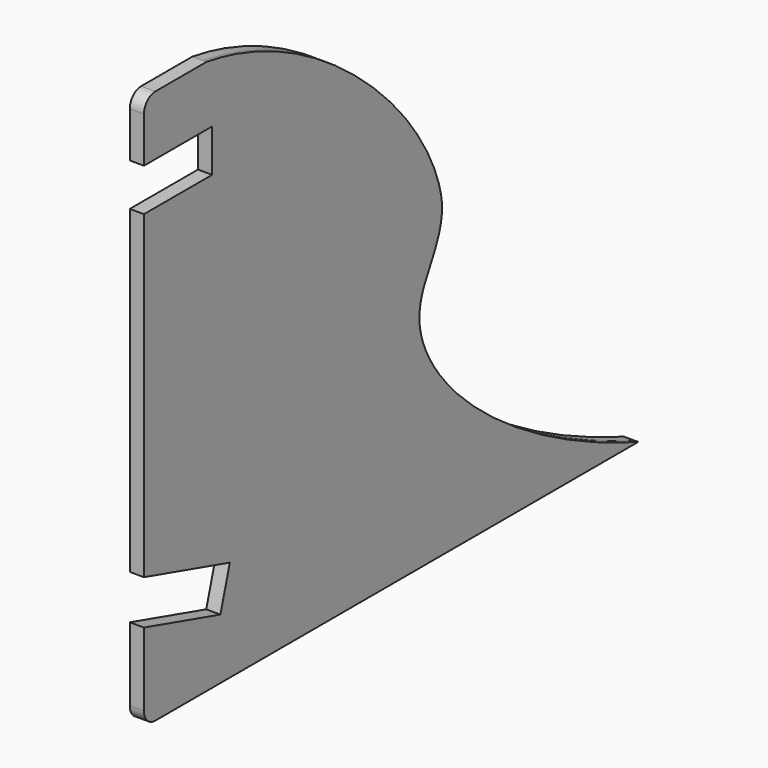
from build123d import *

# Parameters (mm, degrees)
F1_DEPTH      = 1.5
F4_DEPTH      = 0.5
F5_W          = 12
F5_H          = 6
F6_DEPTH      = 25
F8_DEPTH      = 25
F8_DEPTH_BACK = 25


with BuildPart() as f1:
    # F0 (on Right) → F1 (new body)
    with BuildSketch(Plane.YZ):
        with BuildLine():
            Line((42, 78), (2, 78))
            ThreePointArc((2, 78), (0.5857864376, 77.4142135624), (0, 76))
            Line((0, 76), (0, 69.6))
            Line((0, 69.6), (12, 69.6))
            Line((12, 69.6), (12, 63.6))
            Line((12, 63.6), (0, 63.6))
            Line((0, 63.6), (0, 18.5937966152))
            Line((0, 18.5937966152), (15.111487878, 14.2606471942))
            Line((15.111487878, 14.2606471942), (13.4576637431, 8.4930770186))
            Line((13.4576637431, 8.4930770186), (0, 12.352))
            Line((0, 12.352), (0, 2))
            ThreePointArc((0, 2), (0.5857864376, 0.5857864376), (2, 0))
            Line((2, 0), (109, 0))
            add(Edge.make_bspline(
                [(42, 78), (49.7588251107, 74.4711096647), (42.8270565854, 74.0872679271), (176.3258193003, 17.6443266752), (122.5913906271, 2.3415980892), (109, 0)],
                knots=[0, 0, 0, 0, 0.1806872551, 0.6953480319, 1, 1, 1, 1], degree=3))
        make_face()
    extrude(amount=F1_DEPTH)

    # F3 (on face) → F4 (join)
    with BuildSketch(Plane.YZ.offset(1.5)):
        with BuildLine():
            add(Edge.make_bspline(
                [(11, 78), (33.8045589941, 74.6475609926), (60.8453739258, 43.3923563223), (40.9565199131, 30.4234463117), (61.9851178247, 9.0627176212), (87, 0)],
                knots=[0, 0, 0, 0, 0.4113848141, 0.6062089181, 1, 1, 1, 1], degree=3))
            Line((11, 78), (2, 78))
            ThreePointArc((2, 78), (0.5857864376, 77.4142135624), (0, 76))
            Line((0, 76), (0, 2))
            ThreePointArc((0, 2), (0.5857864376, 0.5857864376), (2, 0))
            Line((2, 0), (87, 0))
        make_face()
    extrude(amount=F4_DEPTH)

    # F5 (on face) → F6 (cut)
    with BuildSketch(Plane(origin=(0, 0, 0), x_dir=(0, -1, 0), z_dir=(-1, 0, 0))):
        with Locations((-6, 66.6)):
            Rectangle(F5_W, F5_H)
        Polygon((0, 12.352), (0, 18.5937966152), (-15.111487878, 14.2606471942), (-13.4576637431, 8.4930770186), align=None)
    extrude(amount=-F6_DEPTH, mode=Mode.SUBTRACT)

    # F7 (on face) → F8 (cut, two sides)
    with BuildSketch(Plane.YZ.offset(1.5)) as f8_sk:
        with BuildLine():
            Line((42, 78), (11, 78))
            add(Edge.make_bspline(
                [(11, 78), (32.7046774328, 74.701346457), (60.9417149737, 44.3368591286), (41.0066430471, 30.4474293417), (61.4768450259, 9.4035917217), (87, 0)],
                knots=[0, 0, 0, 0, 0.4084040366, 0.6066566416, 1, 1, 1, 1], degree=3))
            Line((87, 0), (150.4463404417, -1.7935086507))
            Line((150.4463404417, -1.7935086507), (144.0423130989, 78))
            Line((144.0423130989, 78), (42, 78))
        make_face()
    extrude(amount=-F8_DEPTH, mode=Mode.SUBTRACT)
    extrude(f8_sk.sketch, amount=F8_DEPTH_BACK, mode=Mode.SUBTRACT)


solid = f1.part
